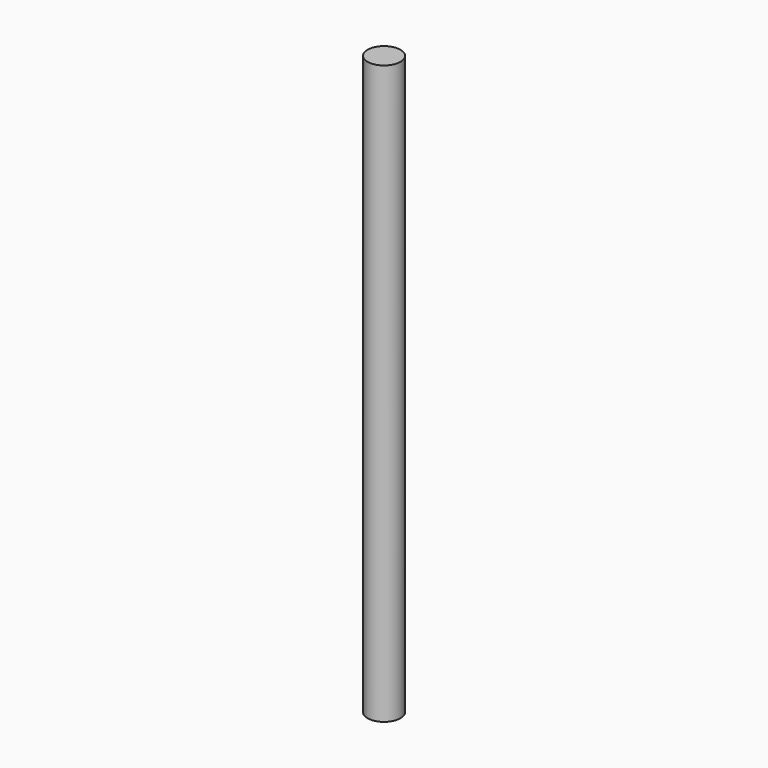
from build123d import *

# Parameters (mm, degrees)
F0_R     = 4.9794833567
F3_DEPTH = 175.26


with BuildPart() as f2:
    # F2: sweep along a path in F1
    with BuildLine(Plane.XZ) as f2_path:
        Line((0, 0), (0, -15.6038068235))
    # F0 (on Top) → F2 (sweep)
    with BuildSketch(Plane.XY):
        Circle(F0_R)
    sweep(path=f2_path.line)

    # F3 (add): a face of the model
    f3_faces = [f2.faces().sort_by_distance(p)[0] for p in [
        (0, 0, -15.6038068235),
    ]]
    extrude(f3_faces, amount=-F3_DEPTH)


solid = f2.part
